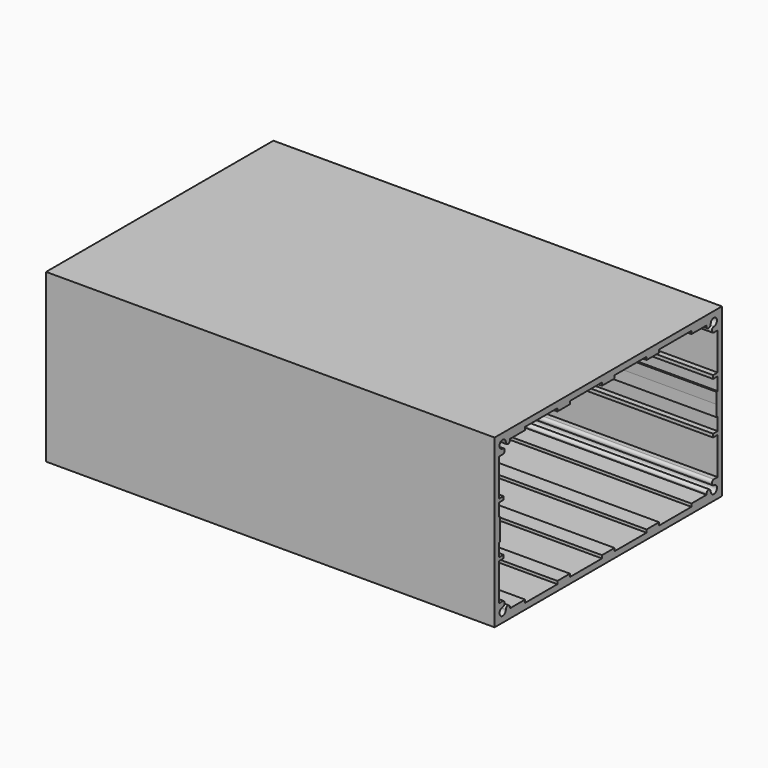
from build123d import *

# Parameters (mm, degrees)
F0_W     = 126.7
F0_H     = 74.5
F1_DEPTH = 200


with BuildPart() as f1:
    # F0 (on Right) → F1 (new body)
    with BuildSketch(Plane.YZ):
        with Locations((63.35, 37.25)):
            Rectangle(F0_W, F0_H)
        with BuildLine():
            Line((59.85, 70.5), (63.35, 70.5))
            Line((63.35, 70.5), (66.85, 70.5))
            Line((66.85, 70.5), (66.85, 71.8))
            Line((66.85, 71.8), (84.7, 71.8))
            Line((84.7, 71.8), (84.7, 70.5))
            Line((84.7, 70.5), (91.7, 70.5))
            Line((91.7, 70.5), (91.7, 71.8))
            Line((91.7, 71.8), (109.7, 71.8))
            Line((109.7, 71.8), (109.7, 70.5))
            Line((109.7, 70.5), (118.15, 70.5))
            Line((118.15, 70.5), (118.15, 70.1))
            ThreePointArc((118.15, 70.1), (119.3, 68.95), (120.45, 70.1))
            ThreePointArc((120.45, 70.1), (123.4374368671, 71.3374368671), (122.2, 68.35))
            ThreePointArc((122.2, 68.35), (121.05, 67.2), (122.2, 66.05))
            Line((122.2, 66.05), (124.3, 66.05))
            Line((124.3, 66.05), (124.3, 49.5))
            Line((124.3, 49.5), (121.7795047916, 49.5))
            Line((121.7795047916, 49.5), (121.7795047916, 48))
            Line((121.7795047916, 48), (124.3, 48))
            Line((124.3, 48), (124.3, 42.2240793705))
            Line((124.3, 42.2240793705), (123.5683309853, 42.2240793705))
            Line((123.5683309853, 42.2240793705), (123.7, 37.25))
            Line((123.7, 37.25), (123.5683309853, 32.2759206295))
            Line((123.5683309853, 32.2759206295), (124.3, 32.2759206295))
            Line((124.3, 32.2759206295), (124.3, 26.5))
            Line((124.3, 26.5), (121.7795047916, 26.5))
            Line((121.7795047916, 26.5), (121.7795047916, 25))
            Line((121.7795047916, 25), (124.3, 25))
            Line((124.3, 25), (124.3, 8.45))
            Line((124.3, 8.45), (122.2, 8.45))
            ThreePointArc((122.2, 8.45), (121.05, 7.3), (122.2, 6.15))
            ThreePointArc((122.2, 6.15), (123.4374368671, 3.1625631329), (120.45, 4.4))
            ThreePointArc((120.45, 4.4), (119.3, 5.55), (118.15, 4.4))
            Line((118.15, 4.4), (118.15, 4))
            Line((118.15, 4), (109.7, 4))
            Line((109.7, 4), (109.7, 2.7))
            Line((109.7, 2.7), (91.7, 2.7))
            Line((91.7, 2.7), (91.7, 4))
            Line((91.7, 4), (84.7, 4))
            Line((84.7, 4), (84.7, 2.7))
            Line((84.7, 2.7), (66.85, 2.7))
            Line((66.85, 2.7), (66.85, 4))
            Line((66.85, 4), (63.35, 4))
            Line((63.35, 4), (59.85, 4))
            Line((59.85, 4), (59.85, 2.7))
            Line((59.85, 2.7), (42, 2.7))
            Line((42, 2.7), (42, 4))
            Line((42, 4), (35, 4))
            Line((35, 4), (35, 2.7))
            Line((35, 2.7), (17, 2.7))
            Line((17, 2.7), (17, 4))
            Line((17, 4), (8.55, 4))
            Line((8.55, 4), (8.55, 4.4))
            ThreePointArc((8.55, 4.4), (7.4, 5.55), (6.25, 4.4))
            ThreePointArc((6.25, 4.4), (3.2625631329, 3.1625631329), (4.5, 6.15))
            ThreePointArc((4.5, 6.15), (5.65, 7.3), (4.5, 8.45))
            Line((4.5, 8.45), (2.4, 8.45))
            Line((2.4, 8.45), (2.4, 25))
            Line((2.4, 25), (4.9204952084, 25))
            Line((4.9204952084, 25), (4.9204952084, 26.5))
            Line((4.9204952084, 26.5), (2.4, 26.5))
            Line((2.4, 26.5), (2.4, 32.2759206295))
            Line((2.4, 32.2759206295), (3.1316690147, 32.2759206295))
            Line((3.1316690147, 32.2759206295), (3, 37.25))
            Line((3, 37.25), (3.1316690147, 42.2240793705))
            Line((3.1316690147, 42.2240793705), (2.4, 42.2240793705))
            Line((2.4, 42.2240793705), (2.4, 48))
            Line((2.4, 48), (4.9204952084, 48))
            Line((4.9204952084, 48), (4.9204952084, 49.5))
            Line((4.9204952084, 49.5), (2.4, 49.5))
            Line((2.4, 49.5), (2.4, 66.05))
            Line((2.4, 66.05), (4.5, 66.05))
            ThreePointArc((4.5, 66.05), (5.65, 67.2), (4.5, 68.35))
            ThreePointArc((4.5, 68.35), (3.2625631329, 71.3374368671), (6.25, 70.1))
            ThreePointArc((6.25, 70.1), (7.4, 68.95), (8.55, 70.1))
            Line((8.55, 70.1), (8.55, 70.5))
            Line((8.55, 70.5), (17, 70.5))
            Line((17, 70.5), (17, 71.8))
            Line((17, 71.8), (35, 71.8))
            Line((35, 71.8), (35, 70.5))
            Line((35, 70.5), (42, 70.5))
            Line((42, 70.5), (42, 71.8))
            Line((42, 71.8), (59.85, 71.8))
            Line((59.85, 71.8), (59.85, 70.5))
        make_face(mode=Mode.SUBTRACT)
    extrude(amount=F1_DEPTH)


solid = f1.part
